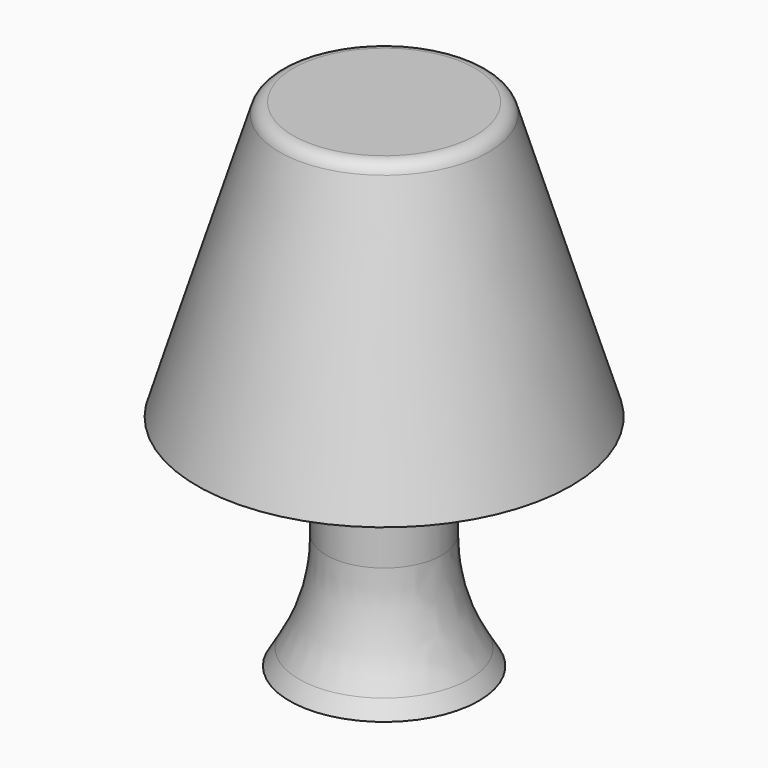
from build123d import *

# Parameters (mm, degrees)
F2_R = 1.5912908075
F3_R = 21.8711796934


with BuildPart() as f1:
    # F0 (on Front) → F1 (revolve)
    with BuildSketch(Plane.XZ):
        Polygon((-30.3995665163, 43.8347905874), (-41.7082160711, 43.8347905874), (-41.7082160711, -11.4233754575), (-31.1706103384, -11.4233754575), (-35.2828465402, -4.483976867), (-35.2828465402, 12.9930237308), (-20.8900216967, 12.9930237308), align=None)
    revolve(axis=Axis((-41.7082160711, 0, 16.2057075649), (0, 0, 1)))

    # F2
    f2_edges = [f1.edges().sort_by_distance(p)[0] for p in [
        (-53.016866, 0, 43.834791),
    ]]
    fillet(f2_edges, radius=F2_R)

    # F3
    f3_edges = [f1.edges().sort_by_distance(p)[0] for p in [
        (-48.133586, 0, -4.483977),
    ]]
    fillet(f3_edges, radius=F3_R)


solid = f1.part
